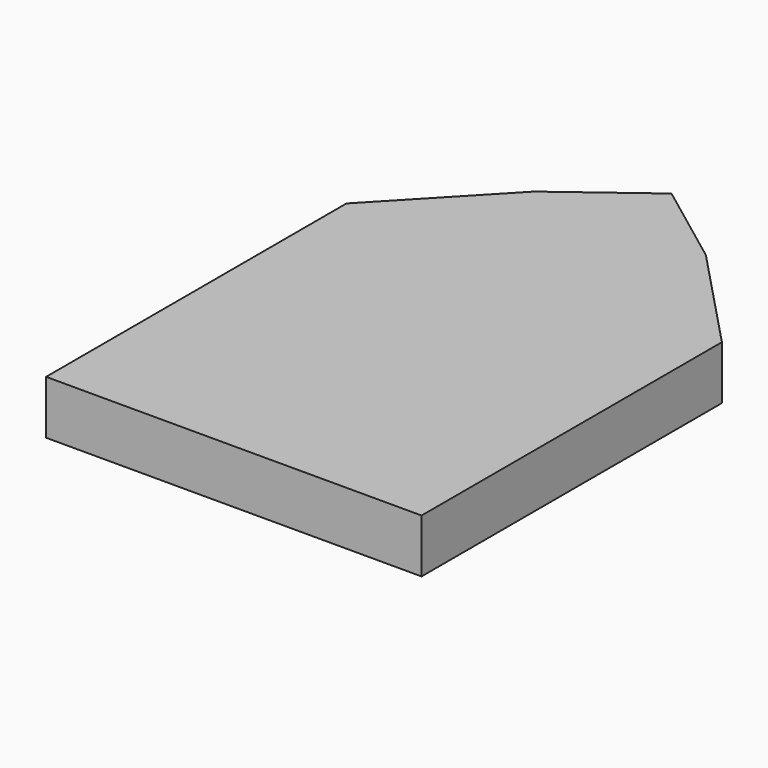
from build123d import *

# Parameters (mm, degrees)
F0_W     = 70
F0_H     = 70
F1_DEPTH = 10


with BuildPart() as f1:
    # F0 (on Top) → F1 (new body)
    with BuildSketch(Plane.XY):
        with Locations((-37.391011, 0)):
            Rectangle(F0_W, F0_H)
        Polygon((-72.391011, 35), (-2.391011, 35), (-21.391011, 55), (-53.391011, 55), align=None)
        Polygon((-53.391011, 55), (-21.391011, 55), (-37.391011, 67), align=None)
    extrude(amount=F1_DEPTH)


solid = f1.part
